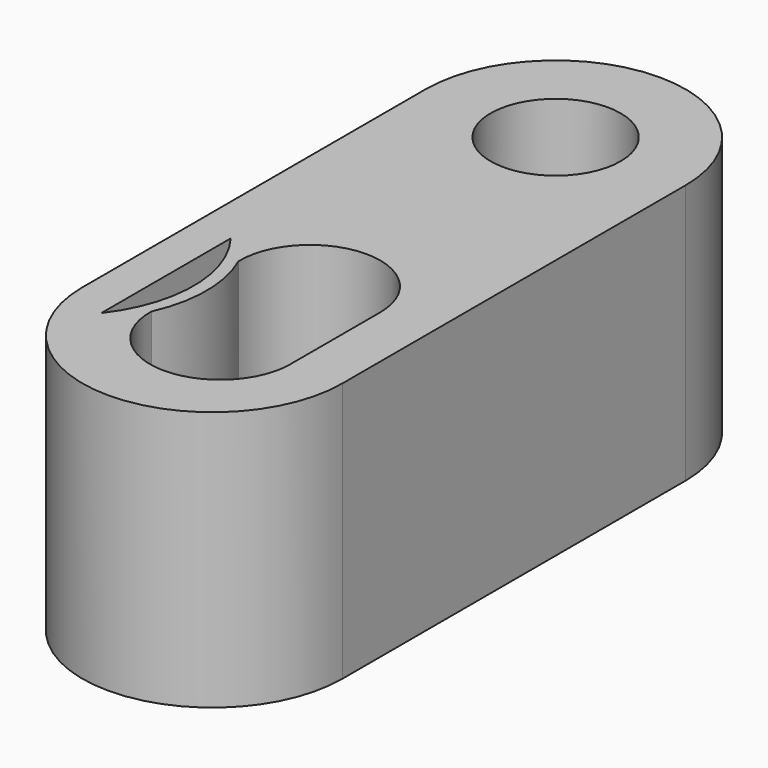
from build123d import *

# Parameters (mm, degrees)
SKETCH_R      = 2.5
EXTRUDE_DEPTH = 10


with BuildPart() as part:
    # Sketch → Extrude (new body)
    with BuildSketch(Plane.XY):
        with BuildLine():
            ThreePointArc((5, 0), (0, 5), (-5, 0))
            Line((-5, 0), (-5, -16.5))
            ThreePointArc((-5, -16.5), (0, -21.5), (5, -16.5))
            Line((5, 0), (5, -16.5))
        make_face()
        Circle(SKETCH_R, mode=Mode.SUBTRACT)
        with BuildLine():
            ThreePointArc((-2.399039, -16.432516), (0.266373, -19.199789), (3.000118, -16.5))
            Line((3.000118, -16.5), (3.000118, -12.179214))
            ThreePointArc((3.000118, -12.179214), (0.263808, -9.479458), (-2.398906, -12.251828))
            ThreePointArc((-2.399039, -16.432516), (-1.949453, -14.342186), (-2.398906, -12.251828))
        make_face(mode=Mode.SUBTRACT)
        with BuildLine():
            ThreePointArc((-3.51031, -17.45064), (-2.449453, -14.342024), (-3.51031, -11.233408))
            Line((-3.51031, -11.233408), (-3.51031, -17.45064))
        make_face(mode=Mode.SUBTRACT)
    extrude(amount=EXTRUDE_DEPTH)


solid = part.part
